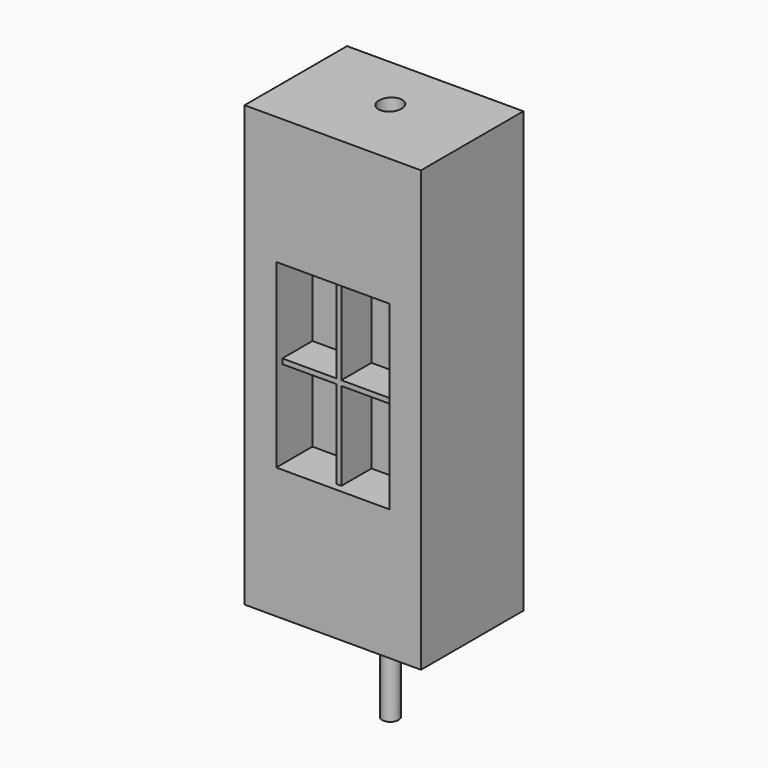
from build123d import *

# Parameters (mm, degrees)
F0_R     = 3.285
F1_DEPTH = 39.6
F3_DEPTH = 2
F5_DEPTH = 175
F7_DEPTH = 18
F8_W     = 1
F8_H     = 35.02
F8_H_2   = 1
F8_W_2   = 21.5
F9_DEPTH = 15


with BuildPart() as f1:
    # F0 (on Top) → F1 (new body)
    with BuildSketch(Plane.XY):
        Circle(F0_R)
    extrude(amount=-F1_DEPTH)

    # F2 (on Top) → F3 (join)
    with BuildSketch(Plane.XY):
        with BuildLine():
            add(Edge.make_bspline(
                [(4.5, 0), (4.5, 8.5303502273), (-2.25, 4.2651751136), (-9, 0), (-2.25, -4.2651751136), (4.5, -8.5303502273), (4.5, 0)],
                knots=[4.7123889804, 4.7123889804, 4.7123889804, 6.8067840828, 6.8067840828, 8.9011791852, 8.9011791852, 10.9955742876, 10.9955742876, 10.9955742876], degree=2, weights=[1, 0.5, 1, 0.5, 1, 0.5, 1]))
        make_face()
    extrude(amount=-F3_DEPTH)


with BuildPart() as f5:
    # F4 (on face) → F5 (new body)
    with BuildSketch(Plane.XY):
        with BuildLine():
            add(Edge.make_bspline(
                [(0, 4.925), (-1.2057713659, 4.925), (-2.25, 4.2651751136), (-4.5, 2.8434500758), (-4.5, 0)],
                knots=[6.2455926065, 6.2455926065, 6.2455926065, 6.8067840828, 6.8067840828, 7.853981634, 7.853981634, 7.853981634], degree=2, weights=[0.8038475773, 0.8660254038, 1, 0.75, 0.75]))
            Line((0, 4.925), (0, 22.325))
            Line((0, 22.325), (-35.1, 22.325))
            Line((-35.1, 22.325), (-35.1, 0))
            Line((-35.1, 0), (-4.5, 0))
        make_face()
        with BuildLine():
            Line((35.1, 0), (4.5, 0))
            add(Edge.make_bspline(
                [(0, -4.925), (4.5, -4.925), (4.5, 0)],
                knots=[9.4623706615, 9.4623706615, 9.4623706615, 10.9955742876, 10.9955742876, 10.9955742876], degree=2, weights=[0.8038475773, 0.6339745962, 1]))
            Line((0, -4.925), (0, -28.625))
            Line((0, -28.625), (35.1, -28.625))
            Line((35.1, -28.625), (35.1, 0))
        make_face()
        with BuildLine():
            Line((0, 22.325), (0, 4.925))
            add(Edge.make_bspline(
                [(4.5, 0), (4.5, 4.925), (0, 4.925)],
                knots=[4.7123889804, 4.7123889804, 4.7123889804, 6.2455926065, 6.2455926065, 6.2455926065], degree=2, weights=[1, 0.6339745962, 0.8038475773]))
            Line((4.5, 0), (35.1, 0))
            Line((35.1, 0), (35.1, 22.325))
            Line((35.1, 22.325), (0, 22.325))
        make_face()
        with BuildLine():
            add(Edge.make_bspline(
                [(-4.5, 0), (-4.5, -2.8434500758), (-2.25, -4.2651751136), (-1.2057713659, -4.925), (0, -4.925)],
                knots=[7.853981634, 7.853981634, 7.853981634, 8.9011791852, 8.9011791852, 9.4623706615, 9.4623706615, 9.4623706615], degree=2, weights=[0.75, 0.75, 1, 0.8660254038, 0.8038475773]))
            Line((-4.5, 0), (-35.1, 0))
            Line((-35.1, 0), (-35.1, -28.625))
            Line((-35.1, -28.625), (0, -28.625))
            Line((0, -28.625), (0, -4.925))
        make_face()
    extrude(amount=F5_DEPTH)

    # F6 (on face) → F7 (cut)
    with BuildSketch(Plane.XZ.offset(28.625)):
        Polygon((-22.5, 52.14), (0, 52.14), (22.5, 52.14), (22.5, 124.18), (-22.5, 124.18), align=None)
    extrude(amount=-F7_DEPTH, mode=Mode.SUBTRACT)

    # F8 (on face) → F9 (join)
    with BuildSketch(Plane.XZ.offset(10.625)):
        with Locations((-0.5, 106.67)):
            Rectangle(F8_W, F8_H)
        with Locations((0.5, 106.67)):
            Rectangle(F8_W, F8_H)
        with Locations((-0.5, 88.66)):
            Rectangle(F8_W, F8_H_2)
        with Locations((-11.75, 88.66)):
            Rectangle(F8_W_2, F8_H_2)
        with Locations((0.5, 88.66)):
            Rectangle(F8_W, F8_H_2)
        with Locations((11.75, 88.66)):
            Rectangle(F8_W_2, F8_H_2)
        with Locations((0.5, 87.66)):
            Rectangle(F8_W, F8_H_2)
        with Locations((-0.5, 87.66)):
            Rectangle(F8_W, F8_H_2)
        with Locations((-11.75, 87.66)):
            Rectangle(F8_W_2, F8_H_2)
        with Locations((11.75, 87.66)):
            Rectangle(F8_W_2, F8_H_2)
        with Locations((0.5, 69.65)):
            Rectangle(F8_W, F8_H)
        with Locations((-0.5, 69.65)):
            Rectangle(F8_W, F8_H)
    extrude(amount=F9_DEPTH)


solid = Compound([f1.part, f5.part])
